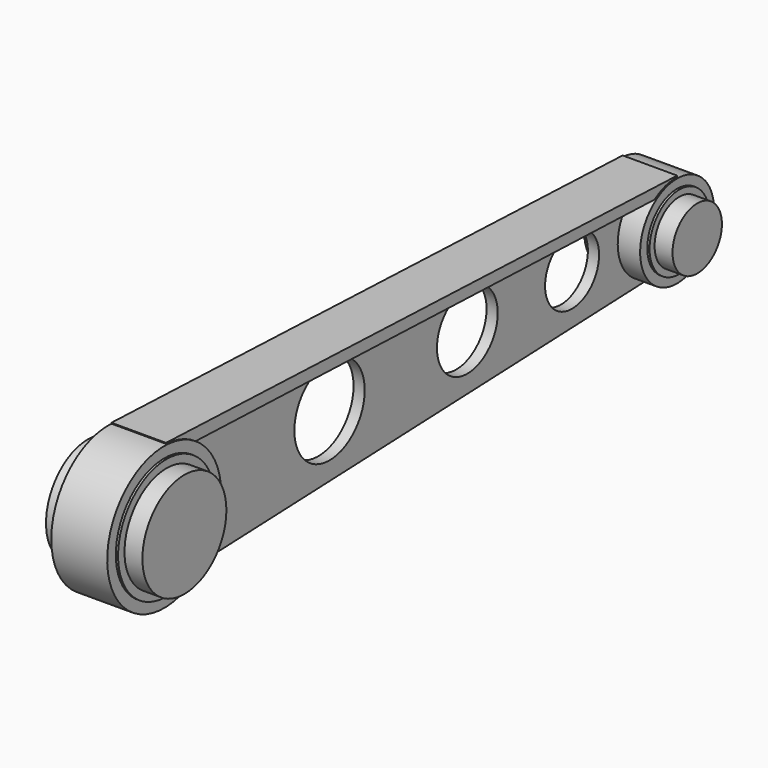
from build123d import *

# Parameters (mm, degrees)
F0_R      = 4.993118
F0_R_2    = 4.314977
F0_R_3    = 3.833909
F1_DEPTH  = 1.27
F0_R_4    = 6.876747
F0_R_5    = 4.227285
F2_DEPTH  = 3.81
F3_DEPTH  = 2.54
F5_DEPTH  = 2.54
F6_DEPTH  = 2.5146
F0_R_6    = 5.96286
F0_R_7    = 3.508795
F7_DEPTH  = 1.778
F8_DEPTH  = 3.6576
F9_DEPTH  = 4.064
F10_DEPTH = 2.794
F11_DEPTH = 2.7686
F12_DEPTH = 6.096
F13_DEPTH = 4.8514


with BuildPart() as f1:
    # F0 (on Right) → F1 (new body)
    with BuildSketch(Plane.YZ):
        with BuildLine():
            ThreePointArc((30.679518, -5.2486), (25.329293, 0.052162), (30.783797, 5.245558))
            Line((30.783797, 5.245558), (-41.582841, 8.076357))
            ThreePointArc((-41.582841, 8.076357), (-36.273612, 5.497048), (-34.123445, 0))
            ThreePointArc((-34.123445, 0), (-36.385243, -5.615502), (-41.907786, -8.095646))
            Line((-41.907786, -8.095646), (30.679518, -5.2486))
        make_face()
        with Locations((-15.587313, 0)):
            Circle(F0_R, mode=Mode.SUBTRACT)
        with Locations((3.977629, 0.031597)):
            Circle(F0_R_2, mode=Mode.SUBTRACT)
        with Locations((18.845779, 0)):
            Circle(F0_R_3, mode=Mode.SUBTRACT)
    extrude(amount=F1_DEPTH)

    # F0 (on Right) → F2 (join)
    with BuildSketch(Plane.YZ):
        with BuildLine():
            ThreePointArc((-34.123445, 0), (-36.273612, 5.497048), (-41.582841, 8.076357))
            ThreePointArc((-41.582841, 8.076357), (-50.325552, 0.162758), (-41.907786, -8.095646))
            ThreePointArc((-41.907786, -8.095646), (-36.385243, -5.615502), (-34.123445, 0))
        make_face()
        with Locations((-42.225316, 0)):
            Circle(F0_R_4, mode=Mode.SUBTRACT)
        with BuildLine():
            ThreePointArc((30.679518, -5.2486), (34.326119, -3.676155), (35.828174, 0))
            ThreePointArc((35.828174, 0), (34.362462, 3.638737), (30.783797, 5.245558))
            ThreePointArc((30.783797, 5.245558), (25.329293, 0.052162), (30.679518, -5.2486))
        make_face()
        with Locations((30.578604, 0)):
            Circle(F0_R_5, mode=Mode.SUBTRACT)
    extrude(amount=F2_DEPTH)

    # F0 (on Right) → F3 (join)
    with BuildSketch(Plane.YZ):
        with BuildLine():
            ThreePointArc((-34.123445, 0), (-36.273612, 5.497048), (-41.582841, 8.076357))
            ThreePointArc((-41.582841, 8.076357), (-50.325552, 0.162758), (-41.907786, -8.095646))
            ThreePointArc((-41.907786, -8.095646), (-36.385243, -5.615502), (-34.123445, 0))
        make_face()
        with Locations((-42.225316, 0)):
            Circle(F0_R_4, mode=Mode.SUBTRACT)
        with BuildLine():
            ThreePointArc((30.679518, -5.2486), (34.326119, -3.676155), (35.828174, 0))
            ThreePointArc((35.828174, 0), (34.362462, 3.638737), (30.783797, 5.245558))
            ThreePointArc((30.783797, 5.245558), (25.329293, 0.052162), (30.679518, -5.2486))
        make_face()
        with Locations((30.578604, 0)):
            Circle(F0_R_5, mode=Mode.SUBTRACT)
    extrude(amount=-F3_DEPTH)

    # F4 (on Right) → F5 (join)
    with BuildSketch(Plane.YZ):
        Polygon((30.701259, 4.202033), (30.785728, 5.408032), (-41.789994, 8.186051), (-41.789994, 6.797041), align=None)
    extrude(amount=-F5_DEPTH)

    # F4 (on Right) → F6 (join)
    with BuildSketch(Plane.YZ):
        Polygon((30.701259, 4.202033), (30.785728, 5.408032), (-41.789994, 8.186051), (-41.789994, 6.797041), align=None)
        Polygon((30.701259, 4.202033), (30.785728, 5.408032), (-41.789994, 8.186051), (-41.789994, 6.797041), align=None)
    extrude(amount=-F6_DEPTH)

    # F0 (on Right) → F7 (join)
    with BuildSketch(Plane.YZ):
        with Locations((-42.225316, 0)):
            Circle(F0_R_4)
        with Locations((-42.225316, 0)):
            Circle(F0_R_6, mode=Mode.SUBTRACT)
        with Locations((30.578604, 0)):
            Circle(F0_R_5)
        with Locations((30.578604, 0)):
            Circle(F0_R_7, mode=Mode.SUBTRACT)
    extrude(amount=F7_DEPTH)

    # F4 (on Right) → F8 (join)
    with BuildSketch(Plane.YZ):
        Polygon((30.701259, 4.202033), (30.785728, 5.408032), (-41.789994, 8.186051), (-41.789994, 6.797041), align=None)
    extrude(amount=F8_DEPTH)

    # F0 (on Right) → F9 (join)
    with BuildSketch(Plane.YZ):
        with Locations((30.578604, 0)):
            Circle(F0_R_5)
        with Locations((30.578604, 0)):
            Circle(F0_R_7, mode=Mode.SUBTRACT)
        with Locations((-42.225316, 0)):
            Circle(F0_R_4)
        with Locations((-42.225316, 0)):
            Circle(F0_R_6, mode=Mode.SUBTRACT)
    extrude(amount=F9_DEPTH)

    # F0 (on Right) → F10 (join)
    with BuildSketch(Plane.YZ):
        with Locations((-42.225316, 0)):
            Circle(F0_R_4)
        with Locations((-42.225316, 0)):
            Circle(F0_R_6, mode=Mode.SUBTRACT)
    extrude(amount=-F10_DEPTH)

    # F0 (on Right) → F11 (join)
    with BuildSketch(Plane.YZ):
        with Locations((30.578604, 0)):
            Circle(F0_R_5)
        with Locations((30.578604, 0)):
            Circle(F0_R_7, mode=Mode.SUBTRACT)
    extrude(amount=-F11_DEPTH)

    # F0 (on Right) → F12 (join)
    with BuildSketch(Plane.YZ):
        with Locations((-42.225316, 0)):
            Circle(F0_R_6)
        with Locations((30.578604, 0)):
            Circle(F0_R_7)
    extrude(amount=F12_DEPTH)

    # F0 (on Right) → F13 (join)
    with BuildSketch(Plane.YZ):
        with Locations((30.578604, 0)):
            Circle(F0_R_7)
        with Locations((-42.225316, 0)):
            Circle(F0_R_6)
    extrude(amount=-F13_DEPTH)


solid = f1.part
